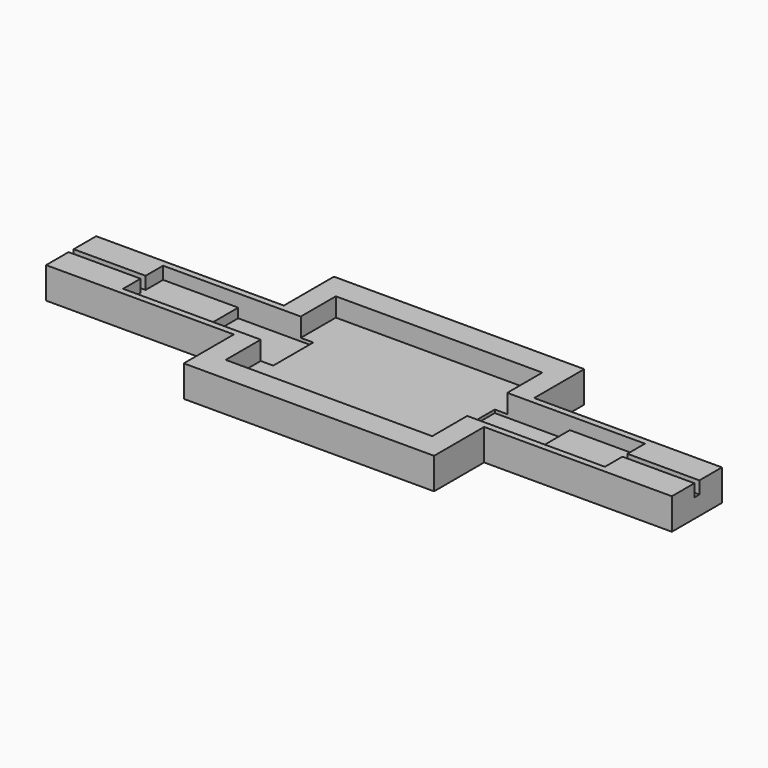
from build123d import *

# Parameters (mm, degrees)
F1_DEPTH = 5
F3_DEPTH = 3
F4_W     = 12
F4_H     = 8
F5_DEPTH = 3.5
F6_W     = 12
F6_H     = 8
F7_DEPTH = 2
F8_W     = 11.5
F8_H     = 1
F9_DEPTH = 2


with BuildPart() as f1:
    # F0 (on Top) → F1 (new body)
    with BuildSketch(Plane.XY):
        Polygon((-20, -5), (-20, -15), (20, -15), (20, -5), (50, -5), (50, 5), (20, 5), (20, 15), (-20, 15), (-20, 5), (-50, 5), (-50, -5), align=None)
    extrude(amount=F1_DEPTH)

    # F2 (on face) → F3 (cut)
    with BuildSketch(Plane.XY.offset(5)):
        Polygon((16.5, 11), (-16.5, 11), (-16.5, 4), (-14.5, 4), (-14.5, -4), (-16.5, -4), (-16.5, -11), (16.5, -11), (16.5, -4), (14.5, -4), (14.5, 4), (16.5, 4), align=None)
    extrude(amount=-F3_DEPTH, mode=Mode.SUBTRACT)

    # F4 (on face) → F5 (cut)
    with BuildSketch(Plane.XY.offset(5)):
        with Locations((-20.5, 0)):
            Rectangle(F4_W, F4_H)
        with Locations((20.5, 0)):
            Rectangle(F4_W, F4_H)
    extrude(amount=-F5_DEPTH, mode=Mode.SUBTRACT)

    # F6 (on face) → F7 (cut)
    with BuildSketch(Plane.XY.offset(5)):
        with Locations((-32.5, 0)):
            Rectangle(F6_W, F6_H)
        with Locations((32.5, 0)):
            Rectangle(F6_W, F6_H)
    extrude(amount=-F7_DEPTH, mode=Mode.SUBTRACT)

    # F8 (on face) → F9 (cut)
    with BuildSketch(Plane.XY.offset(5)):
        with Locations((-44.25, 0)):
            Rectangle(F8_W, F8_H)
        with Locations((44.25, 0)):
            Rectangle(F8_W, F8_H)
    extrude(amount=-F9_DEPTH, mode=Mode.SUBTRACT)


solid = f1.part
